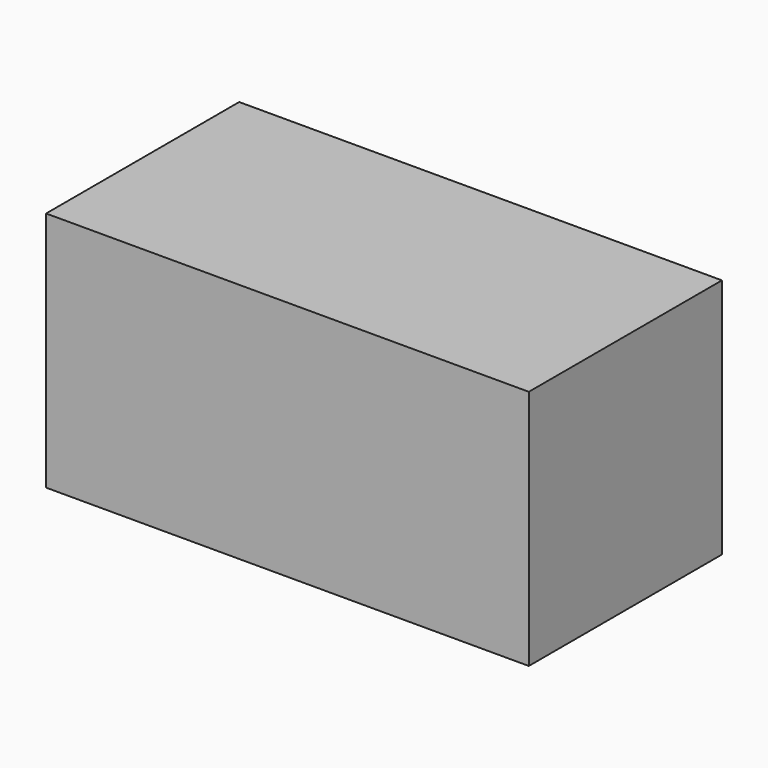
from build123d import *

# Parameters (mm, degrees)
F0_W     = 1270
F0_H     = 635
F0_W_2   = 1219.2
F0_H_2   = 609.6
F1_DEPTH = 635
F2_DEPTH = 609.6
F3_R     = 25.4
F3_R_2   = 12.7
F4_DEPTH = 50.8


with BuildPart() as f1:
    # F0 (on Front) → F1 (new body)
    with BuildSketch(Plane.XZ):
        Rectangle(F0_W, F0_H)
        Rectangle(F0_W_2, F0_H_2, mode=Mode.SUBTRACT)
        Rectangle(F0_W_2, F0_H_2)
    extrude(amount=F1_DEPTH)

    # F0 (on Front) → F2 (cut)
    with BuildSketch(Plane.XZ):
        Rectangle(F0_W_2, F0_H_2)
    extrude(amount=F2_DEPTH, mode=Mode.SUBTRACT)

    # F3 (on face) → F4 (join)
    with BuildSketch(Plane(origin=(0, 0, -317.5), x_dir=(1, 0, 0), z_dir=(0, 0, -1))):
        with Locations((317.5, 317.5)):
            Circle(F3_R)
        with Locations((317.5, 317.5)):
            Circle(F3_R_2, mode=Mode.SUBTRACT)
        with Locations((-317.5, 317.5)):
            Circle(F3_R)
        with Locations((-317.5, 317.5)):
            Circle(F3_R_2, mode=Mode.SUBTRACT)
    extrude(amount=F4_DEPTH)


solid = f1.part
